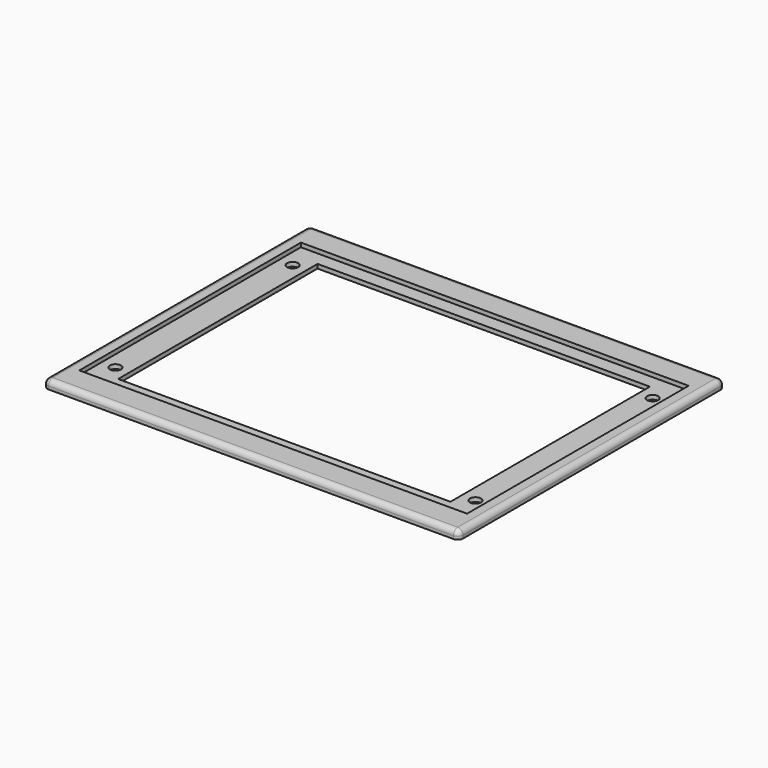
from build123d import *

# Parameters (mm, degrees)
SKETCH_W        = 150
SKETCH_H        = 120
PAD_DEPTH       = 3
SKETCH002_W     = 120
SKETCH002_H     = 90
POCKET_DEPTH    = 5
SKETCH001_W     = 140
SKETCH001_H     = 100
POCKET001_DEPTH = 1.5
SKETCH003_R     = 2
POCKET002_DEPTH = 5
SKETCH004_R     = 2
POCKET003_DEPTH = 5
SKETCH005_R     = 2
POCKET004_DEPTH = 5
SKETCH006_R     = 2
POCKET005_DEPTH = 5
FILLET_R        = 1.9


with BuildPart() as part:
    # Sketch → Pad (new body)
    with BuildSketch(Plane.XY):
        with Locations((75, 60)):
            Rectangle(SKETCH_W, SKETCH_H)
    extrude(amount=-PAD_DEPTH)

    # Sketch002 → Pocket (cut)
    with BuildSketch(Plane.XY):
        with Locations((75, 60)):
            Rectangle(SKETCH002_W, SKETCH002_H)
    extrude(amount=-POCKET_DEPTH, mode=Mode.SUBTRACT)

    # Sketch001 → Pocket001 (cut)
    with BuildSketch(Plane.XY):
        with Locations((75, 60)):
            Rectangle(SKETCH001_W, SKETCH001_H)
    extrude(amount=-POCKET001_DEPTH, mode=Mode.SUBTRACT)

    # Sketch003 → Pocket002 (cut)
    with BuildSketch(Plane.XY):
        with Locations((10, 20)):
            Circle(SKETCH003_R)
    extrude(amount=-POCKET002_DEPTH, mode=Mode.SUBTRACT)

    # Sketch004 → Pocket003 (cut)
    with BuildSketch(Plane.XY):
        with Locations((10, 100)):
            Circle(SKETCH004_R)
    extrude(amount=-POCKET003_DEPTH, mode=Mode.SUBTRACT)

    # Sketch005 → Pocket004 (cut)
    with BuildSketch(Plane.XY):
        with Locations((140, 20)):
            Circle(SKETCH005_R)
    extrude(amount=-POCKET004_DEPTH, mode=Mode.SUBTRACT)

    # Sketch006 → Pocket005 (cut)
    with BuildSketch(Plane.XY):
        with Locations((140, 100)):
            Circle(SKETCH006_R)
    extrude(amount=-POCKET005_DEPTH, mode=Mode.SUBTRACT)

    # Fillet
    fillet_edges = [part.edges().sort_by_distance(p)[0] for p in [
        (0, 60, 0),
        (75, 0, 0),
        (150, 60, 0),
        (75, 120, 0),
        (0, 0, -1.5),
        (150, 0, -1.5),
        (150, 120, -1.5),
        (0, 120, -1.5),
    ]]
    fillet(fillet_edges, radius=FILLET_R)


solid = part.part
